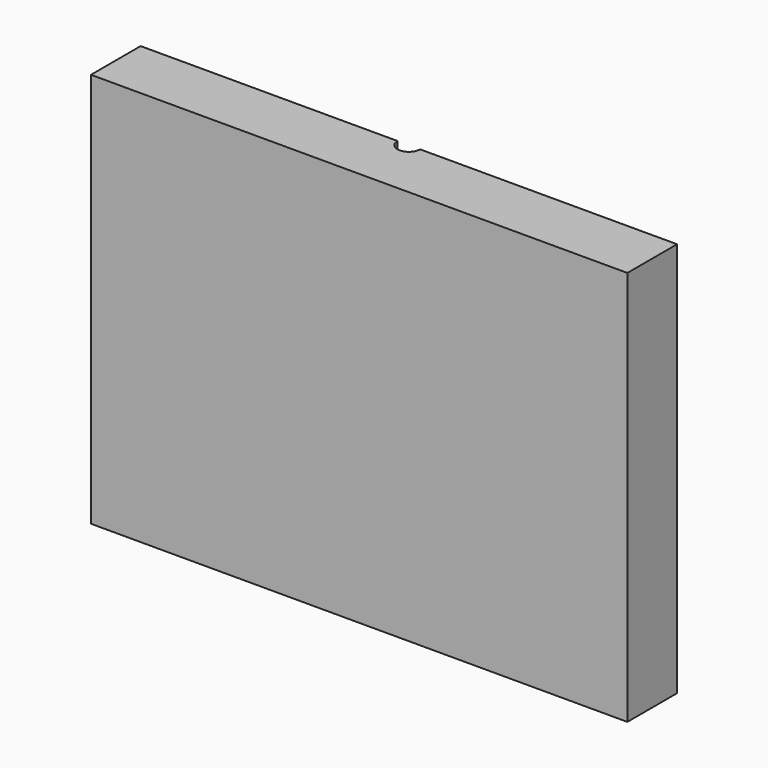
from build123d import *

# Parameters (mm, degrees)
F0_W     = 9.5
F0_H     = 7
F1_DEPTH = 1.1
F3_DEPTH = 7


with BuildPart() as f1:
    # F0 (on Front) → F1 (new body)
    with BuildSketch(Plane.XZ):
        Rectangle(F0_W, F0_H)
    extrude(amount=F1_DEPTH)

    # F2 (on face) → F3 (cut, through all)
    with BuildSketch(Plane(origin=(0, 0, -3.5), x_dir=(1, 0, 0), z_dir=(0, 0, -1))):
        with BuildLine():
            ThreePointArc((0.2, 0), (0, 0.2), (-0.2, 0))
            Line((-0.2, 0), (0.2, 0))
        make_face()
    extrude(amount=-F3_DEPTH, mode=Mode.SUBTRACT)


solid = f1.part
